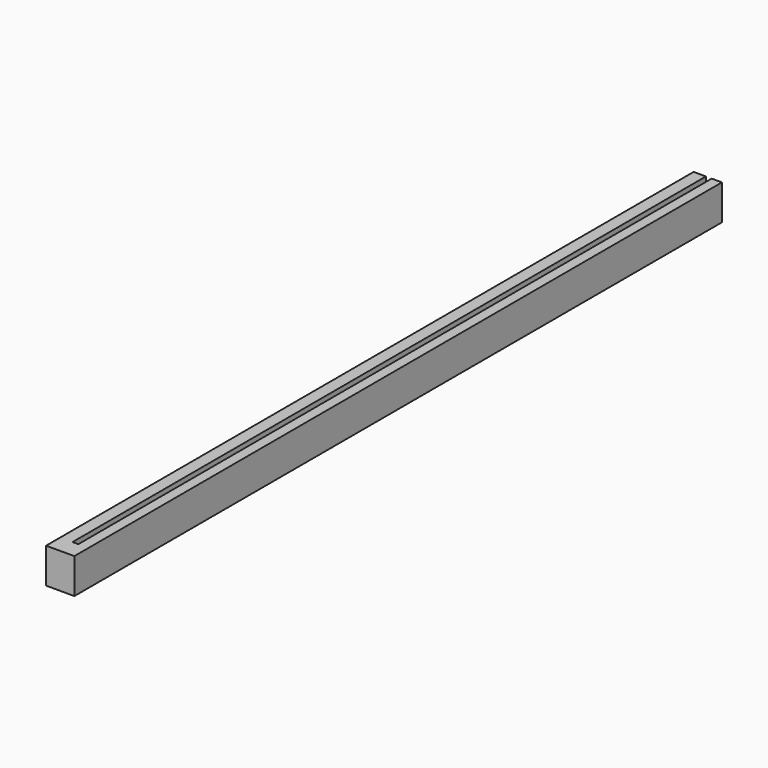
from build123d import *

# Parameters (mm, degrees)
F0_W     = 0.69863
F0_H     = 44.976722
F0_W_2   = 0.579462
F1_DEPTH = 2


with BuildPart() as f1:
    # F0 (on Top) → F1 (new body)
    with BuildSketch(Plane.XY):
        with Locations((-40.727569, 22.488361)):
            Rectangle(F0_W, F0_H)
        with Locations((-39.75977, 22.488361)):
            Rectangle(F0_W_2, F0_H)
        Polygon((-40.378254, 0), (-41.076884, 0), (-41.076884, -1.00596), (-39.470039, -1.00596), (-39.470039, 0), (-40.049501, 0), align=None)
    extrude(amount=F1_DEPTH)


solid = f1.part
